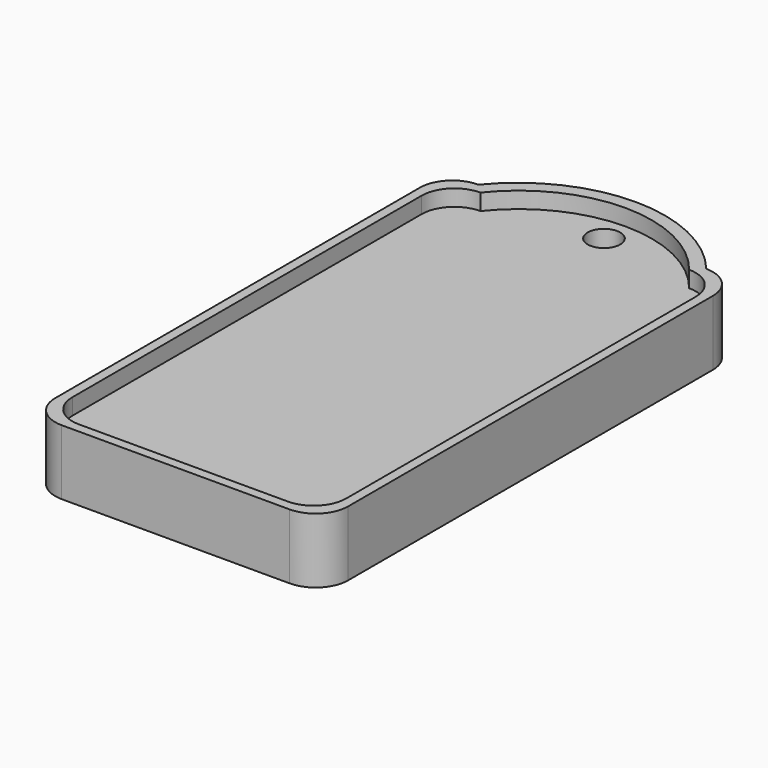
from build123d import *

# Parameters (mm, degrees)
F1_DEPTH = 10
F2_R     = 2.5
F3_DEPTH = 2.5
F4_DEPTH = 40.9


with BuildPart() as f1:
    # F0 (on Top) → F1 (new body)
    with BuildSketch(Plane.XY):
        with BuildLine():
            ThreePointArc((33.0953783914, 67.4970372766), (15.5953783914, 75.7789746896), (-1.9046216086, 67.4970372766))
            Line((-1.9046216086, 67.4970372766), (33.0953783914, 67.4970372766))
        make_face()
        with BuildLine():
            ThreePointArc((-6.9046216086, -7.5029627234), (-5.4401555145, -11.0384966293), (-1.9046216086, -12.5029627234))
            Line((-1.9046216086, -12.5029627234), (33.0953783914, -12.5029627234))
            ThreePointArc((33.0953783914, -12.5029627234), (36.6309122974, -11.0384966293), (38.0953783914, -7.5029627234))
            Line((38.0953783914, -7.5029627234), (38.0953783914, 62.4970372766))
            ThreePointArc((38.0953783914, 62.4970372766), (36.6309122974, 66.0325711826), (33.0953783914, 67.4970372766))
            Line((33.0953783914, 67.4970372766), (-1.9046216086, 67.4970372766))
            ThreePointArc((-1.9046216086, 67.4970372766), (-5.4401555145, 66.0325711826), (-6.9046216086, 62.4970372766))
            Line((-6.9046216086, 62.4970372766), (-6.9046216086, -7.5029627234))
        make_face()
    extrude(amount=F1_DEPTH)

    # F2 (on face) → F3 (cut)
    with BuildSketch(Plane.XY.offset(10)):
        with BuildLine():
            ThreePointArc((31.6309122974, 66.0325711826), (15.5953783914, 73.7975858827), (-0.4401555145, 66.0325711826))
            Line((-0.4401555145, 66.0325711826), (31.6309122974, 66.0325711826))
        make_face()
        with Locations((15.5847426504, 69.739215076)):
            Circle(F2_R, mode=Mode.SUBTRACT)
        with BuildLine():
            ThreePointArc((-5.4401555145, -6.0384966293), (-3.9756894204, -9.5740305352), (-0.4401555145, -11.0384966293))
            Line((-0.4401555145, -11.0384966293), (31.6309122974, -11.0384966293))
            ThreePointArc((31.6309122974, -11.0384966293), (35.1664462033, -9.5740305352), (36.6309122974, -6.0384966293))
            Line((36.6309122974, -6.0384966293), (36.6309122974, 61.0325711826))
            ThreePointArc((36.6309122974, 61.0325711826), (35.1664462033, 64.5681050885), (31.6309122974, 66.0325711826))
            Line((31.6309122974, 66.0325711826), (-0.4401555145, 66.0325711826))
            ThreePointArc((-0.4401555145, 66.0325711826), (-3.9756894204, 64.5681050885), (-5.4401555145, 61.0325711826))
            Line((-5.4401555145, 61.0325711826), (-5.4401555145, -6.0384966293))
        make_face()
    extrude(amount=-F3_DEPTH, mode=Mode.SUBTRACT)

    # F4 (cut): a face of the model
    f4_faces = [f1.faces().sort_by_distance(p)[0] for p in [
        (15.5847426504, 69.739215076, 10),
    ]]
    extrude(f4_faces, amount=-F4_DEPTH, mode=Mode.SUBTRACT)


solid = f1.part
